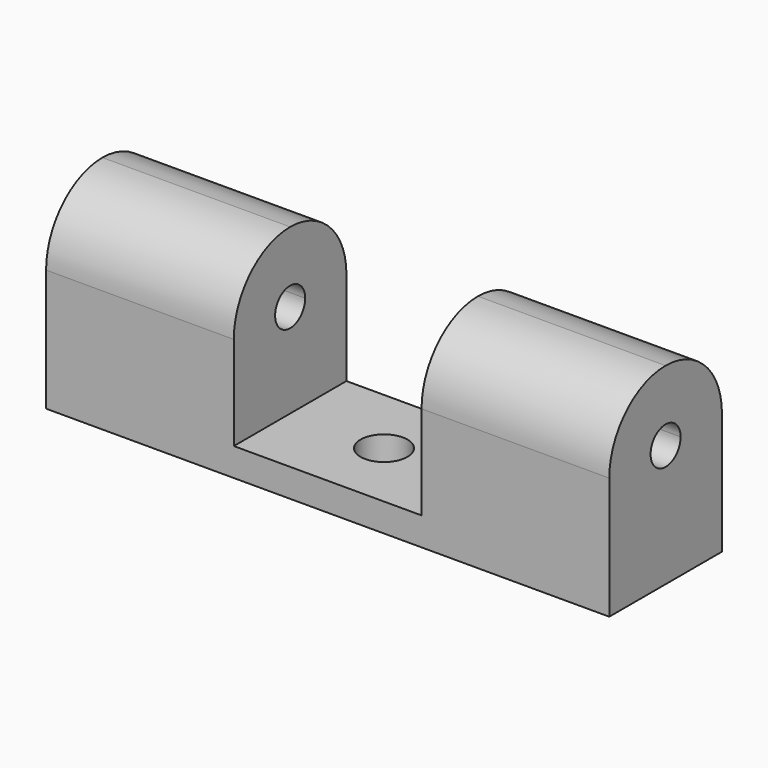
from build123d import *

# Parameters (mm, degrees)
F0_W     = 120
F0_H     = 30
F0_R     = 5
F1_DEPTH = 6
F2_W     = 40
F2_H     = 30
F3_DEPTH = 35
F5_DEPTH = 122


with BuildPart() as f1:
    # F0 (on Top) → F1 (new body)
    with BuildSketch(Plane.XY):
        Rectangle(F0_W, F0_H)
        Circle(F0_R, mode=Mode.SUBTRACT)
    extrude(amount=F1_DEPTH)

    # F2 (on face) → F3 (join)
    with BuildSketch(Plane.XY.offset(6)):
        with Locations((-40, 0)):
            Rectangle(F2_W, F2_H)
        with Locations((40, 0)):
            Rectangle(F2_W, F2_H)
    extrude(amount=F3_DEPTH)

    # F4 (on face) → F5 (cut)
    with BuildSketch(Plane.YZ.offset(60)):
        with BuildLine():
            Line((0, 41), (-15, 41))
            Line((-15, 41), (-15, 26))
            ThreePointArc((-15, 26), (-10.606602, 36.606602), (0, 41))
        make_face()
        with BuildLine():
            Line((15, 41), (0, 41))
            ThreePointArc((0, 41), (10.606602, 36.606602), (15, 26))
            Line((15, 26), (15, 41))
        make_face()
        with BuildLine():
            ThreePointArc((4, 26), (2.828427, 28.828427), (0, 30))
            ThreePointArc((0, 30), (-2.828427, 23.171573), (4, 26))
        make_face()
    extrude(amount=-F5_DEPTH, mode=Mode.SUBTRACT)


solid = f1.part
